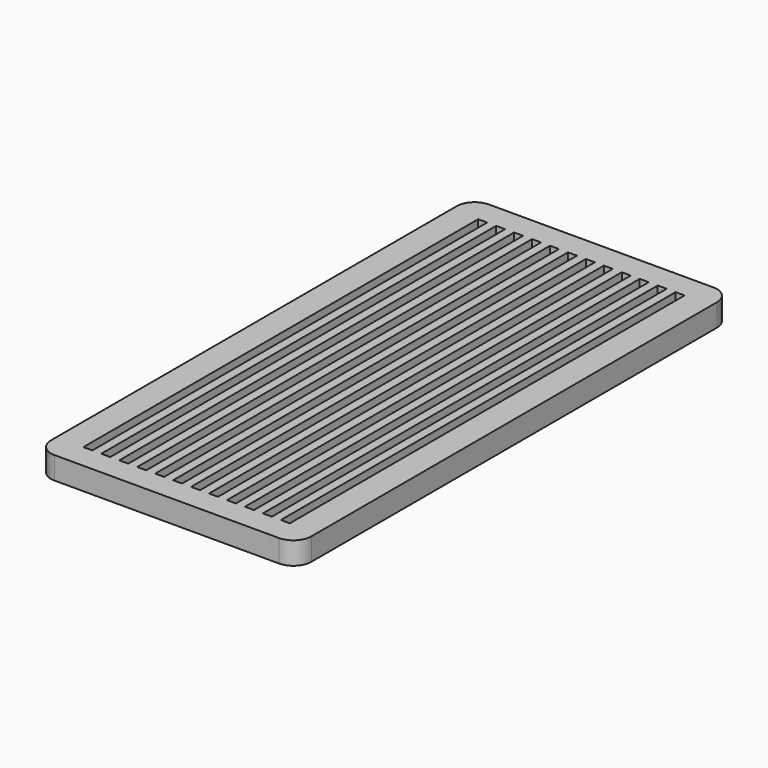
from build123d import *

# Parameters (mm, degrees)
F0_W     = 58
F0_H     = 121
F0_W_2   = 2
F0_H_2   = 110
F1_DEPTH = 5
F2_R     = 4


with BuildPart() as f1:
    # F0 (on Top) → F1 (new body)
    with BuildSketch(Plane.XY):
        Rectangle(F0_W, F0_H)
        with Locations((-22, 0)):
            Rectangle(F0_W_2, F0_H_2, mode=Mode.SUBTRACT)
        with Locations((-18, 0)):
            Rectangle(F0_W_2, F0_H_2, mode=Mode.SUBTRACT)
        with Locations((-14, 0)):
            Rectangle(F0_W_2, F0_H_2, mode=Mode.SUBTRACT)
        with Locations((-10, 0)):
            Rectangle(F0_W_2, F0_H_2, mode=Mode.SUBTRACT)
        with Locations((-6, 0)):
            Rectangle(F0_W_2, F0_H_2, mode=Mode.SUBTRACT)
        with Locations((-2, 0)):
            Rectangle(F0_W_2, F0_H_2, mode=Mode.SUBTRACT)
        with Locations((2, 0)):
            Rectangle(F0_W_2, F0_H_2, mode=Mode.SUBTRACT)
        with Locations((6, 0)):
            Rectangle(F0_W_2, F0_H_2, mode=Mode.SUBTRACT)
        with Locations((10, 0)):
            Rectangle(F0_W_2, F0_H_2, mode=Mode.SUBTRACT)
        with Locations((14, 0)):
            Rectangle(F0_W_2, F0_H_2, mode=Mode.SUBTRACT)
        with Locations((18, 0)):
            Rectangle(F0_W_2, F0_H_2, mode=Mode.SUBTRACT)
        with Locations((22, 0)):
            Rectangle(F0_W_2, F0_H_2, mode=Mode.SUBTRACT)
    extrude(amount=F1_DEPTH)

    # F2
    f2_edges = [f1.edges().sort_by_distance(p)[0] for p in [
        (29, 60.5, 2.5),
        (29, -60.5, 2.5),
        (-29, -60.5, 2.5),
        (-29, 60.5, 2.5),
    ]]
    fillet(f2_edges, radius=F2_R)


solid = f1.part
